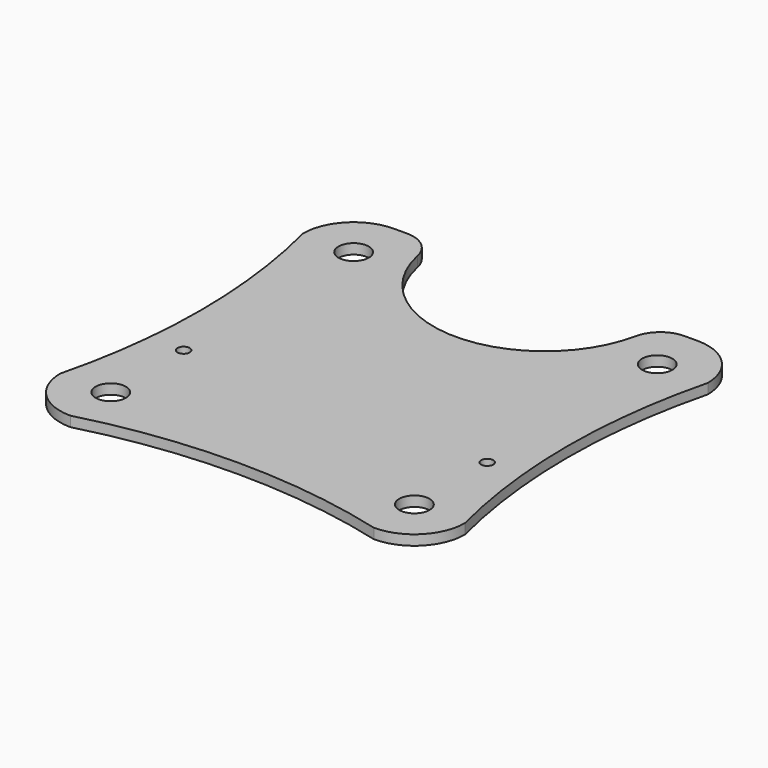
from build123d import *

# Parameters (mm, degrees)
F0_R     = 1.5
F0_R_2   = 0.6
F1_DEPTH = 1


with BuildPart() as f1:
    # F0 (on Top) → F1 (new body)
    with BuildSketch(Plane.XY):
        with BuildLine():
            Line((-13.704066, 20), (-15, 20))
            ThreePointArc((-15, 20), (-18.535534, 18.535534), (-20, 15))
            ThreePointArc((-20, 15), (-18.135286, 0), (-20, -15))
            ThreePointArc((-20, -15), (-18.535534, -18.535534), (-15, -20))
            ThreePointArc((-15, -20), (0, -18.04678), (15, -20))
            ThreePointArc((15, -20), (18.535534, -18.535534), (20, -15))
            ThreePointArc((20, -15), (18.135286, 0), (20, 15))
            ThreePointArc((20, 15), (18.535534, 18.535534), (15, 20))
            Line((15, 20), (13.704066, 20))
            ThreePointArc((13.704066, 20), (11.812389, 19.328424), (10.767649, 17.614371))
            ThreePointArc((10.767649, 17.614371), (0, 8.866427), (-10.767649, 17.614371))
            ThreePointArc((-10.767649, 17.614371), (-11.812389, 19.328424), (-13.704066, 20))
        make_face()
        with Locations((-15, -15)):
            Circle(F0_R, mode=Mode.SUBTRACT)
        with Locations((-15, -6)):
            Circle(F0_R_2, mode=Mode.SUBTRACT)
        with Locations((15, -15)):
            Circle(F0_R, mode=Mode.SUBTRACT)
        with Locations((15, -6)):
            Circle(F0_R_2, mode=Mode.SUBTRACT)
        with Locations((-15, 15)):
            Circle(F0_R, mode=Mode.SUBTRACT)
        with Locations((15, 15)):
            Circle(F0_R, mode=Mode.SUBTRACT)
    extrude(amount=F1_DEPTH)


solid = f1.part
